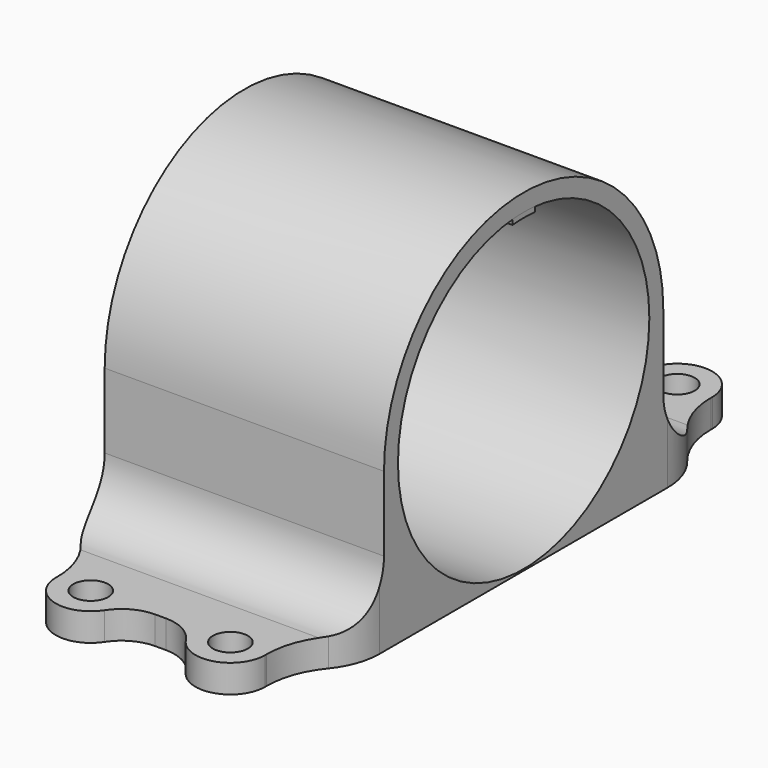
from build123d import *

# Parameters (mm, degrees)
F0_R     = 1.5875
F1_DEPTH = 2.54
F2_W     = 25.4
F2_H     = 31.75
F3_DEPTH = 31.75
F4_R     = 14.2875
F5_DEPTH = 53.3654
F6_R     = 5.08
F8_DEPTH = 25.4


with BuildPart() as f1:
    # F0 (on Top) → F1 (new body)
    with BuildSketch(Plane.XY):
        with BuildLine():
            Line((0, 0), (12.7, 0))
            Line((12.7, 0), (12.7, 16.370167))
            ThreePointArc((12.7, 16.370167), (12.327903, 18.511936), (11.25522, 20.402699))
            ThreePointArc((11.25522, 20.402699), (9.966485, 22.67585), (9.521489, 25.250735))
            ThreePointArc((9.521489, 25.250735), (9.522303, 25.353477), (9.524503, 25.456199))
            ThreePointArc((9.524503, 25.456199), (7.226254, 28.451689), (3.688904, 27.131818))
            ThreePointArc((3.688904, 27.131818), (2.311936, 25.860823), (0.495589, 25.4))
            Line((0.495589, 25.4), (-0.495589, 25.4))
            ThreePointArc((-0.495589, 25.4), (-2.311936, 25.860823), (-3.688904, 27.131818))
            ThreePointArc((-3.688904, 27.131818), (-7.253229, 28.443814), (-9.525, 25.4))
            ThreePointArc((-9.525, 25.4), (-9.524161, 25.353068), (-9.523612, 25.306132))
            ThreePointArc((-9.523612, 25.306132), (-9.958565, 22.701996), (-11.256059, 20.4026))
            ThreePointArc((-11.256059, 20.4026), (-12.328126, 18.512236), (-12.7, 16.371088))
            Line((-12.7, 16.371088), (-12.7, 0))
            Line((-12.7, 0), (0, 0))
        make_face()
        with Locations((-6.35, 25.4)):
            Circle(F0_R, mode=Mode.SUBTRACT)
        with Locations((6.35, 25.4)):
            Circle(F0_R, mode=Mode.SUBTRACT)
        with BuildLine():
            Line((12.7, -16.370167), (12.7, 0))
            Line((12.7, 0), (0, 0))
            Line((0, 0), (-12.7, 0))
            Line((-12.7, 0), (-12.7, -16.371088))
            ThreePointArc((-12.7, -16.371088), (-12.328126, -18.512236), (-11.256059, -20.4026))
            ThreePointArc((-11.256059, -20.4026), (-9.958565, -22.701996), (-9.523612, -25.306132))
            ThreePointArc((-9.523612, -25.306132), (-9.524161, -25.353068), (-9.525, -25.4))
            ThreePointArc((-9.525, -25.4), (-7.253229, -28.443814), (-3.688904, -27.131818))
            ThreePointArc((-3.688904, -27.131818), (-2.311936, -25.860823), (-0.495589, -25.4))
            Line((-0.495589, -25.4), (0.495589, -25.4))
            ThreePointArc((0.495589, -25.4), (2.311936, -25.860823), (3.688904, -27.131818))
            ThreePointArc((3.688904, -27.131818), (7.226254, -28.451689), (9.524503, -25.456199))
            ThreePointArc((9.524503, -25.456199), (9.522303, -25.353477), (9.521489, -25.250735))
            ThreePointArc((9.521489, -25.250735), (9.966485, -22.67585), (11.25522, -20.402699))
            ThreePointArc((11.25522, -20.402699), (12.327903, -18.511936), (12.7, -16.370167))
        make_face()
        with Locations((-6.35, -25.4)):
            Circle(F0_R, mode=Mode.SUBTRACT)
        with Locations((6.35, -25.4)):
            Circle(F0_R, mode=Mode.SUBTRACT)
    extrude(amount=F1_DEPTH)

    # F2 (on face) → F3 (join)
    with BuildSketch(Plane.XY.offset(2.54)):
        Rectangle(F2_W, F2_H)
    extrude(amount=F3_DEPTH)

    # F4 (on face) → F5 (cut)
    with BuildSketch(Plane(origin=(-12.7, 0, 0), x_dir=(0, -1, 0), z_dir=(-1, 0, 0))):
        with BuildLine():
            ThreePointArc((-15.875, 14.4145), (0, 30.2895), (15.875, 14.4145))
            Line((15.875, 14.4145), (15.875, 34.29))
            Line((15.875, 34.29), (-15.875, 34.29))
            Line((-15.875, 34.29), (-15.875, 14.4145))
        make_face()
        with Locations((0, 14.4145)):
            Circle(F4_R)
    extrude(amount=-F5_DEPTH, mode=Mode.SUBTRACT)

    # F6
    f6_edges = [f1.edges().sort_by_distance(p)[0] for p in [
        (0, -15.875, 2.54),
        (0, 15.875, 2.54),
    ]]
    fillet(f6_edges, radius=F6_R)


with BuildPart() as f8:
    # F7 (on face) → F8 (new body)
    with BuildSketch(Plane(origin=(-12.7, 0, 0), x_dir=(0, -1, 0), z_dir=(-1, 0, 0))):
        with BuildLine():
            Line((1.27, 28.194), (1.27, 28.645444))
            ThreePointArc((1.27, 28.645444), (0, 28.702), (-1.27, 28.645444))
            Line((-1.27, 28.645444), (-1.27, 28.194))
            ThreePointArc((-1.27, 28.194), (0, 28.252402), (1.27, 28.194))
        make_face()
    extrude(amount=-F8_DEPTH)


solid = Compound([f1.part, f8.part])
